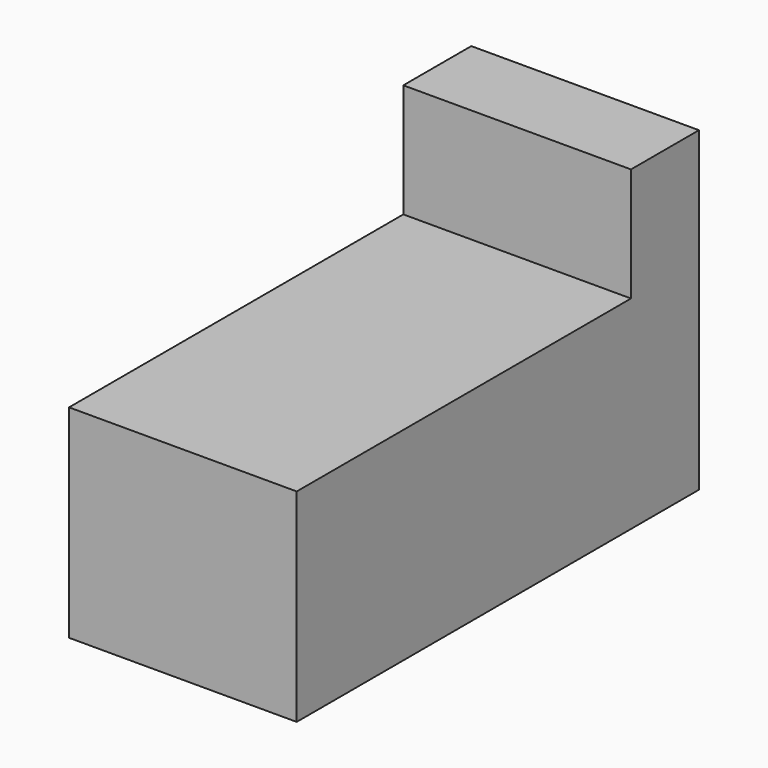
from build123d import *

# Parameters (mm, degrees)
F0_W     = 91.3384
F0_H     = 97.5812673569
F1_DEPTH = 127
F2_W     = 91.3384
F2_H     = 45.5940548778
F3_DEPTH = 63.5
F4_DEPTH = 25.4
F5_W     = 91.3384
F5_H     = 81.4059451222
F6_DEPTH = 78.74


with BuildPart() as f1:
    # F0 (on Top) → F1 (new body)
    with BuildSketch(Plane.XY):
        with Locations((-10.1847631006, -3.307942301)):
            Rectangle(F0_W, F0_H)
    extrude(amount=F1_DEPTH)

    # F2 (on face) → F3 (cut)
    with BuildSketch(Plane.XZ.offset(52.0985759795)):
        with Locations((-10.1847631006, 104.2029725611)):
            Rectangle(F2_W, F2_H)
    extrude(amount=-F3_DEPTH, mode=Mode.SUBTRACT)

    # F4 (add): a face of the model
    f4_faces = [f1.faces().sort_by_distance(p)[0] for p in [
        (-10.1847631006, -52.0985759795, 40.7029725611),
    ]]
    extrude(f4_faces, amount=F4_DEPTH)

    # F5 (on face) → F6 (join)
    with BuildSketch(Plane.XZ.offset(77.4985759795)):
        with Locations((-10.1847631006, 40.7029725611)):
            Rectangle(F5_W, F5_H)
    extrude(amount=F6_DEPTH)


solid = f1.part
